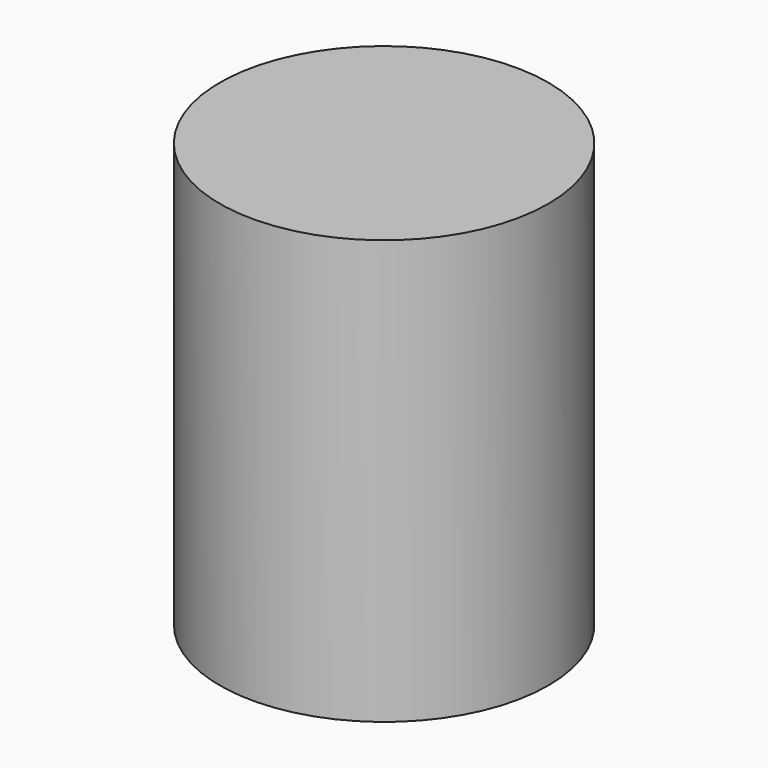
from build123d import *

# Parameters (mm, degrees)
SKETCH_R     = 7.745
PAD_DEPTH    = 20
SKETCH001_R  = 4.775
POCKET_DEPTH = 10


with BuildPart() as part:
    # Sketch → Pad (new body)
    with BuildSketch(Plane.XY):
        Circle(SKETCH_R)
    extrude(amount=PAD_DEPTH)

    # Sketch001 (on Face2 of Pad) → Pocket (cut)
    with BuildSketch(Plane(origin=(0, 0, 0), x_dir=(1, 0, 0), z_dir=(0, 0, -1))):
        Circle(SKETCH001_R)
    extrude(amount=-POCKET_DEPTH, mode=Mode.SUBTRACT)


solid = part.part
